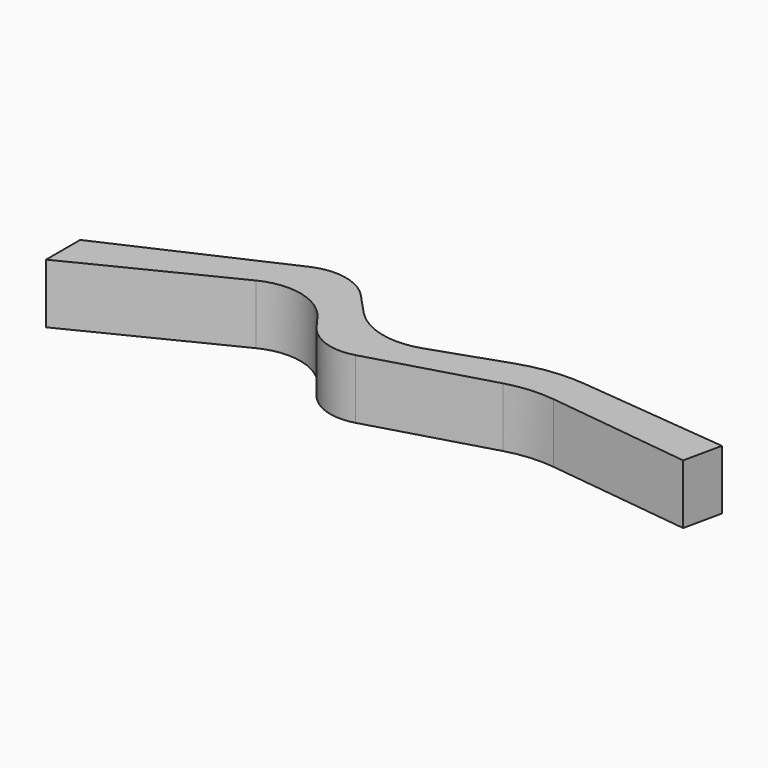
from build123d import *

# Parameters (mm, degrees)
PAD_DEPTH = 2


with BuildPart() as part:
    # Sketch → Pad (new body)
    with BuildSketch(Plane.XY):
        with BuildLine():
            Line((-60.105615, 45.533643), (-54.466598, 48.091796))
            ThreePointArc((-52.403313, 47.678624), (-53.368379, 48.217678), (-54.466598, 48.091796))
            Line((-52.403313, 47.678624), (-51.737988, 46.96393))
            ThreePointArc((-51.737988, 46.96393), (-50.585163, 46.283393), (-49.247664, 46.340273))
            Line((-49.247664, 46.340273), (-46.846974, 47.163608))
            ThreePointArc((-44.679417, 47.414663), (-45.776747, 47.406135), (-46.846974, 47.163608))
            Line((-44.679417, 47.414663), (-39.67485, 46.913708))
            Line((-39.67485, 46.913708), (-39.952934, 45.634525))
            Line((-39.952934, 45.634525), (-44.774068, 46.226029))
            ThreePointArc((-44.774068, 46.226029), (-45.579656, 46.243017), (-46.372273, 46.098043))
            Line((-46.372273, 46.098043), (-50.39025, 44.934378))
            ThreePointArc((-52.180316, 45.54252), (-51.380911, 44.956967), (-50.39025, 44.934378))
            Line((-52.180316, 45.54252), (-52.510514, 45.991705))
            ThreePointArc((-52.510514, 45.991705), (-53.67937, 46.769354), (-55.074387, 46.611594))
            Line((-55.074387, 46.611594), (-60.105615, 44.103531))
            Line((-60.105615, 44.103531), (-60.105615, 45.533643))
        make_face()
    extrude(amount=PAD_DEPTH)


solid = part.part
